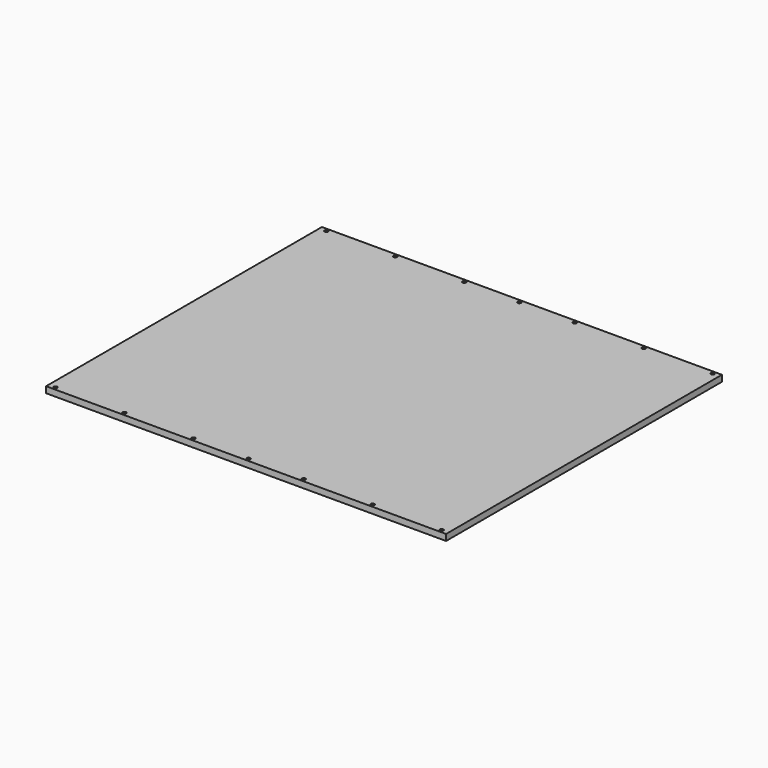
from build123d import *

# Parameters (mm, degrees)
F0_W     = 580
F0_H     = 500
F0_R     = 2.5
F1_DEPTH = 9


with BuildPart() as f1:
    # F0 (on Top) → F1 (new body)
    with BuildSketch(Plane.XY):
        Rectangle(F0_W, F0_H)
        with Locations((-280, -245.5)):
            Circle(F0_R, mode=Mode.SUBTRACT)
        with Locations((-180, -245.5)):
            Circle(F0_R, mode=Mode.SUBTRACT)
        with Locations((-80, -245.5)):
            Circle(F0_R, mode=Mode.SUBTRACT)
        with Locations((0, -245.5)):
            Circle(F0_R, mode=Mode.SUBTRACT)
        with Locations((80, -245.5)):
            Circle(F0_R, mode=Mode.SUBTRACT)
        with Locations((180, -245.5)):
            Circle(F0_R, mode=Mode.SUBTRACT)
        with Locations((280, -245.5)):
            Circle(F0_R, mode=Mode.SUBTRACT)
        with Locations((-280, 245.5)):
            Circle(F0_R, mode=Mode.SUBTRACT)
        with Locations((-180, 245.5)):
            Circle(F0_R, mode=Mode.SUBTRACT)
        with Locations((-80, 245.5)):
            Circle(F0_R, mode=Mode.SUBTRACT)
        with Locations((0, 245.5)):
            Circle(F0_R, mode=Mode.SUBTRACT)
        with Locations((80, 245.5)):
            Circle(F0_R, mode=Mode.SUBTRACT)
        with Locations((180, 245.5)):
            Circle(F0_R, mode=Mode.SUBTRACT)
        with Locations((280, 245.5)):
            Circle(F0_R, mode=Mode.SUBTRACT)
    extrude(amount=F1_DEPTH)


solid = f1.part
